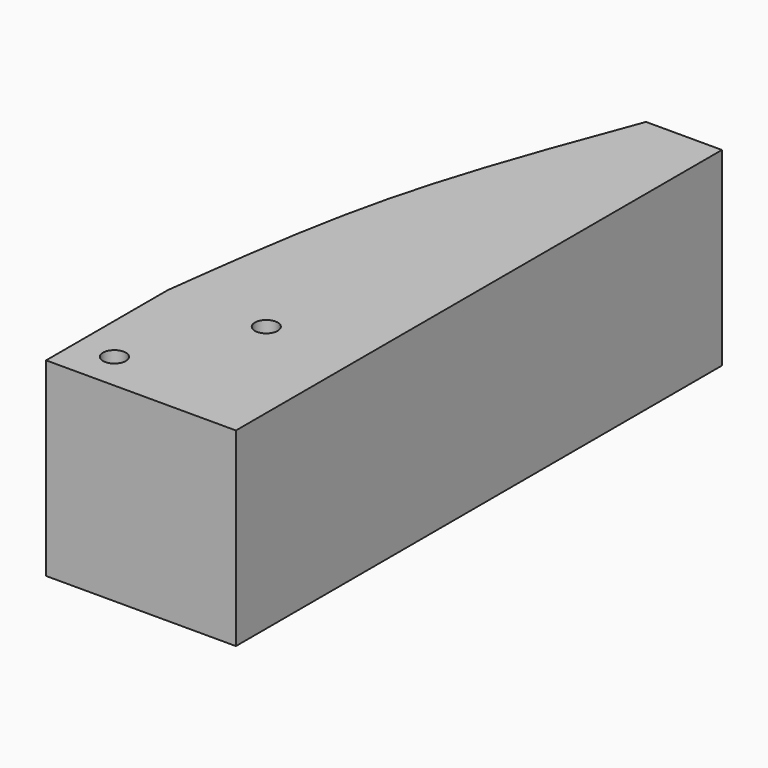
from build123d import *

# Parameters (mm, degrees)
F0_R     = 1.5
F1_DEPTH = 25


with BuildPart() as f1:
    # F0 (on Top) → F1 (new body)
    with BuildSketch(Plane.XY):
        with BuildLine():
            Line((0, -20), (0, 0))
            Line((0, 0), (0, 60))
            Line((0, 60), (-10, 60))
            add(Edge.make_bspline(
                [(-10, 60), (-13.7457798028, 50.0496833938), (-21.165039581, 30.3411079665), (-23.7300116456, 10.047783958), (-25, 0)],
                knots=[0, 0, 0, 0, 0.5048724421, 1, 1, 1, 1], degree=3))
            Line((-25, 0), (-25, -20))
            Line((-25, -20), (0, -20))
        make_face()
        with Locations((-20, -15)):
            Circle(F0_R, mode=Mode.SUBTRACT)
        with Locations((-12, 0)):
            Circle(F0_R, mode=Mode.SUBTRACT)
    extrude(amount=F1_DEPTH)


solid = f1.part
